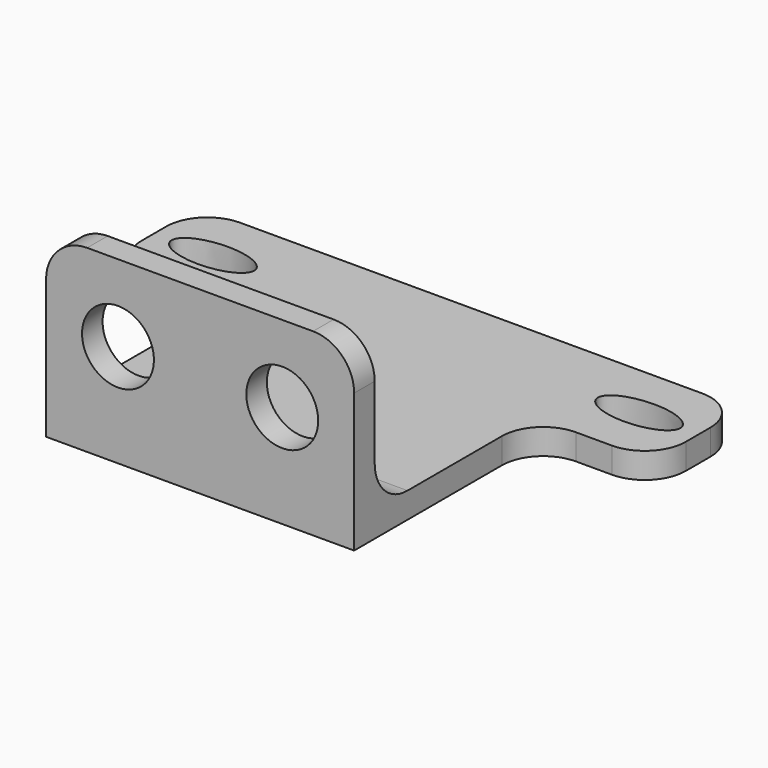
from build123d import *

# Parameters (mm, degrees)
F1_DEPTH = 2.5
F2_W     = 30
F2_H     = 2.5
F3_DEPTH = 15
F4_R     = 3.5
F5_DEPTH = 2.501
F6_R     = 4


with BuildPart() as f1:
    # F0 (on Top) → F1 (new body)
    with BuildSketch(Plane.XY):
        Polygon((-41.5, 0), (-11.5, 0), (-11.5, 22), (0, 22), (0, 33), (-53, 33), (-53, 22), (-41.5, 22), align=None)
        with BuildLine():
            add(Edge.make_bspline(
                [(-43.229692, 27.5), (-43.229692, 30.655264), (-49.260154, 29.077632), (-55.290617, 27.5), (-49.260154, 25.922368), (-43.229692, 24.344736), (-43.229692, 27.5)],
                knots=[0, 0, 0, 2.094395, 2.094395, 4.18879, 4.18879, 6.283185, 6.283185, 6.283185], degree=2, weights=[1, 0.5, 1, 0.5, 1, 0.5, 1]))
        make_face(mode=Mode.SUBTRACT)
        with BuildLine():
            add(Edge.make_bspline(
                [(-9.770308, 27.5), (-9.770308, 24.344736), (-3.739846, 25.922368), (2.290617, 27.5), (-3.739846, 29.077632), (-9.770308, 30.655264), (-9.770308, 27.5)],
                knots=[0, 0, 0, 2.094395, 2.094395, 4.18879, 4.18879, 6.283185, 6.283185, 6.283185], degree=2, weights=[1, 0.5, 1, 0.5, 1, 0.5, 1]))
        make_face(mode=Mode.SUBTRACT)
    extrude(amount=F1_DEPTH)

    # F2 (on face) → F3 (join)
    with BuildSketch(Plane.XY.offset(2.5)):
        with Locations((-26.5, 1.25)):
            Rectangle(F2_W, F2_H)
    extrude(amount=F3_DEPTH)

    # F4 (on face) → F5 (cut, through all)
    with BuildSketch(Plane(origin=(0, 2.5, 0), x_dir=(-1, 0, 0), z_dir=(0, 1, 0))):
        with Locations((18.5, 10)):
            Circle(F4_R)
        with Locations((34.5, 10)):
            Circle(F4_R)
    extrude(amount=-F5_DEPTH, mode=Mode.SUBTRACT)

    # F6
    f6_edges = [f1.edges().sort_by_distance(p)[0] for p in [
        (0, 33, 1.25),
        (-53, 33, 1.25),
        (-53, 22, 1.25),
        (-41.5, 22, 1.25),
        (-11.5, 22, 1.25),
        (0, 22, 1.25),
        (-26.5, 2.5, 2.5),
        (-11.5, 1.25, 17.5),
        (-41.5, 1.25, 17.5),
    ]]
    fillet(f6_edges, radius=F6_R)


solid = f1.part
